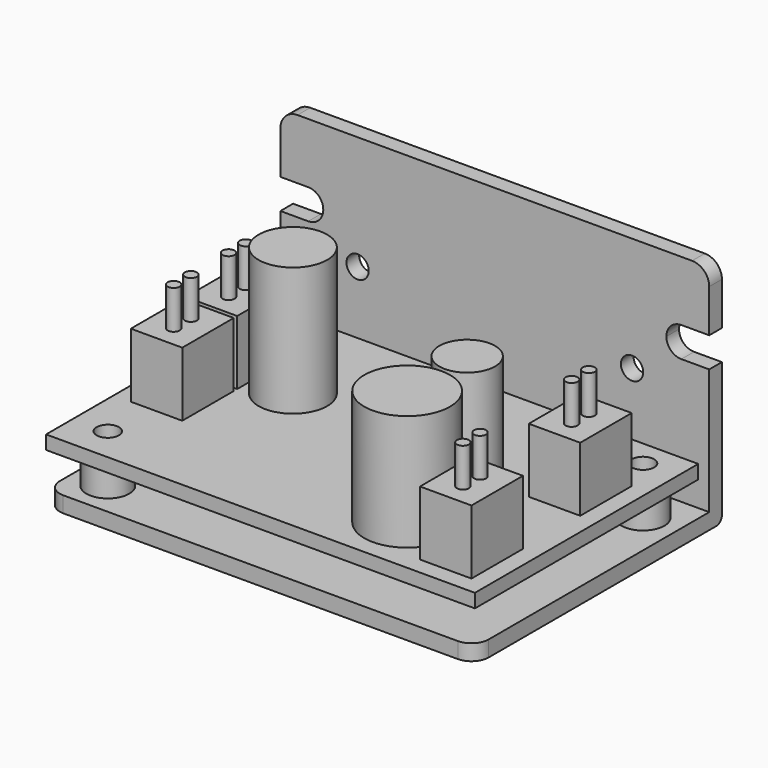
from build123d import *

# Parameters (mm, degrees)
F1_DEPTH  = 25
F2_R      = 1.3
F3_DEPTH  = 1.851
F2_R_2    = 2.5
F4_DEPTH  = 4
F5_R      = 1.3
F6_DEPTH  = 36.001
F7_R      = 2
F8_W      = 50
F8_H      = 32.55
F8_R      = 2.5
F8_R_2    = 1.3
F9_DEPTH  = 1.6
F10_W     = 6
F10_H     = 7.5
F11_DEPTH = 7.5
F10_R     = 5
F10_R_2   = 3.25
F12_DEPTH = 13.5
F10_R_3   = 4
F13_DEPTH = 15
F14_R     = 0.7
F15_DEPTH = 4.5


with BuildPart() as f1:
    # F0 (on Right) → F1 (new body, symmetric)
    with BuildSketch(Plane.YZ):
        with BuildLine():
            Line((-17.6, 1.85), (-17.6, 0))
            Line((-17.6, 0), (17.6, 0))
            ThreePointArc((17.6, 0), (18.165685, 0.234315), (18.4, 0.8))
            Line((18.4, 0.8), (18.4, 27))
            Line((18.4, 27), (16.55, 27))
            Line((16.55, 27), (16.55, 1.85))
            Line((16.55, 1.85), (-17.6, 1.85))
        make_face()
    extrude(amount=F1_DEPTH, both=True)

    # F2 (on face) → F3 (cut, through all)
    with BuildSketch(Plane.XY.offset(1.85)):
        with Locations((-21, -13.6)):
            Circle(F2_R)
        with Locations((-16, -0.6)):
            Circle(F2_R)
        with Locations((21, 11.9)):
            Circle(F2_R)
        with Locations((16, -0.6)):
            Circle(F2_R)
    extrude(amount=-F3_DEPTH, mode=Mode.SUBTRACT)

    # F2 (on face) → F4 (join)
    with BuildSketch(Plane.XY.offset(1.85)):
        with Locations((-21, -13.6)):
            Circle(F2_R_2)
        with Locations((-21, -13.6)):
            Circle(F2_R, mode=Mode.SUBTRACT)
        with Locations((21, 11.9)):
            Circle(F2_R_2)
        with Locations((21, 11.9)):
            Circle(F2_R, mode=Mode.SUBTRACT)
    extrude(amount=F4_DEPTH)

    # F5 (on face) → F6 (cut, through all)
    with BuildSketch(Plane(origin=(0, 18.4, 0), x_dir=(-1, 0, 0), z_dir=(0, 1, 0))):
        with Locations((-16, 13.7)):
            Circle(F5_R)
        with Locations((16, 13.7)):
            Circle(F5_R)
        with BuildLine():
            Line((25, 16.5), (25, 20))
            Line((25, 20), (21.75, 20))
            ThreePointArc((21.75, 20), (22.987437, 19.487437), (23.5, 18.25))
            ThreePointArc((23.5, 18.25), (22.987437, 17.012563), (21.75, 16.5))
            Line((21.75, 16.5), (25, 16.5))
        make_face()
        with BuildLine():
            ThreePointArc((23.5, 18.25), (22.987437, 19.487437), (21.75, 20))
            ThreePointArc((21.75, 20), (20, 18.25), (21.75, 16.5))
            ThreePointArc((21.75, 16.5), (22.987437, 17.012563), (23.5, 18.25))
        make_face()
        with BuildLine():
            ThreePointArc((-21.75, 16.5), (-23.5, 18.25), (-21.75, 20))
            Line((-21.75, 20), (-25, 20))
            Line((-25, 20), (-25, 16.5))
            Line((-25, 16.5), (-21.75, 16.5))
        make_face()
        with BuildLine():
            ThreePointArc((-21.75, 16.5), (-20.512563, 17.012563), (-20, 18.25))
            ThreePointArc((-20, 18.25), (-20.512563, 19.487437), (-21.75, 20))
            ThreePointArc((-21.75, 20), (-23.5, 18.25), (-21.75, 16.5))
        make_face()
    extrude(amount=-F6_DEPTH, mode=Mode.SUBTRACT)

    # F7
    f7_edges = [f1.edges().sort_by_distance(p)[0] for p in [
        (25, -17.6, 0.925),
        (-25, -17.6, 0.925),
        (-25, 17.475, 27),
        (25, 17.475, 27),
    ]]
    fillet(f7_edges, radius=F7_R)


with BuildPart() as f9:
    # F8 (on face) → F9 (new body)
    with BuildSketch(Plane.XY.offset(5.85)):
        with Locations((0, -1.325)):
            Rectangle(F8_W, F8_H)
        with Locations((-21, -13.6)):
            Circle(F8_R, mode=Mode.SUBTRACT)
        with Locations((21, 11.9)):
            Circle(F8_R_2, mode=Mode.SUBTRACT)
        with Locations((-21, -13.6)):
            Circle(F8_R)
        with Locations((-21, -13.6)):
            Circle(F8_R_2, mode=Mode.SUBTRACT)
    extrude(amount=F9_DEPTH)


with BuildPart() as f11:
    # F10 (on face) → F11 (new body)
    with BuildSketch(Plane.XY.offset(7.45)):
        with Locations((-20, 4)):
            Rectangle(F10_W, F10_H)
        with Locations((-20, -4)):
            Rectangle(F10_W, F10_H)
        with Locations((20, -11.85)):
            Rectangle(F10_W, F10_H)
        with Locations((20, 4)):
            Rectangle(F10_W, F10_H)
    extrude(amount=F11_DEPTH)


with BuildPart() as f12:
    # F10 (on face) → F12 (new body)
    with BuildSketch(Plane.XY.offset(7.45)):
        with Locations((11.5, -10.6)):
            Circle(F10_R)
        with Locations((11.5, -1.85)):
            Circle(F10_R_2)
    extrude(amount=F12_DEPTH)


with BuildPart() as f13:
    # F10 (on face) → F13 (new body)
    with BuildSketch(Plane.XY.offset(7.45)):
        with Locations((-12.5, 2.75)):
            Circle(F10_R_3)
    extrude(amount=F13_DEPTH)


with BuildPart() as f15:
    # F14 (on face) → F15 (new body)
    with BuildSketch(Plane.XY.offset(14.95)):
        with Locations((20, -13.1)):
            Circle(F14_R)
        with Locations((20, 2.75)):
            Circle(F14_R)
        with Locations((-20, 2.75)):
            Circle(F14_R)
        with Locations((-20, -5.25)):
            Circle(F14_R)
        with Locations((20, -10.6)):
            Circle(F14_R)
        with Locations((20, 5.25)):
            Circle(F14_R)
        with Locations((-20, 5.25)):
            Circle(F14_R)
        with Locations((-20, -2.75)):
            Circle(F14_R)
    extrude(amount=F15_DEPTH)


solid = Compound([f1.part, f9.part, f11.part, f12.part, f13.part, f15.part])
